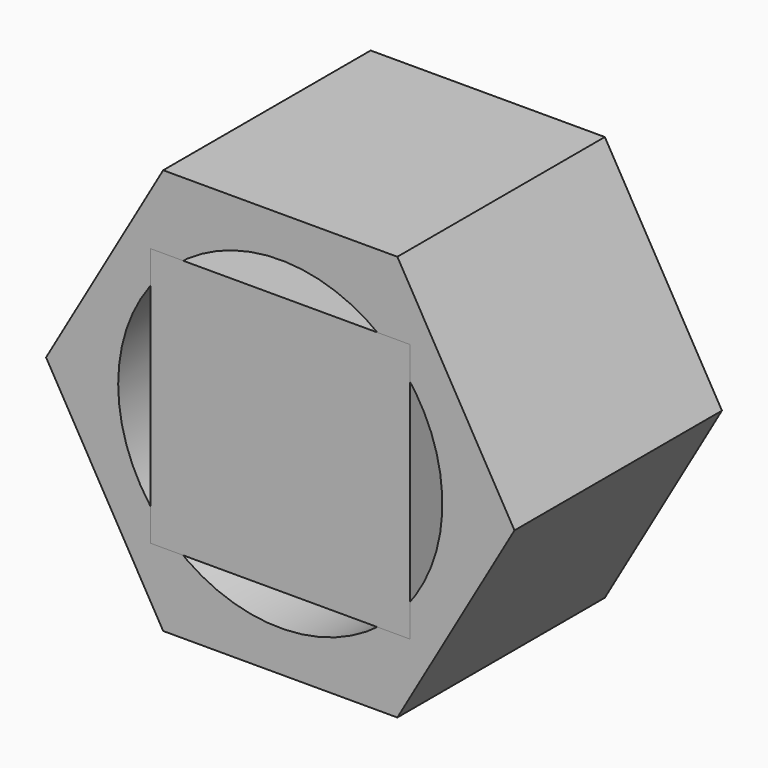
from build123d import *

# Parameters (mm, degrees)
F2_DEPTH = 25.4
F1_W     = 50.8
F1_H     = 50.8
F3_DEPTH = 25.4
F4_D     = 63.5
F4_DEPTH = 25.401
F5_D     = 63.5


with BuildPart() as f2:
    # F0 (on Front) → F2 (new body, symmetric)
    with BuildSketch(Plane.XZ):
        Polygon((22.9372407829, 39.7284664214), (-22.9372407829, 39.7284664214), (-45.8744815657, 0), (-22.9372407829, -39.7284664214), (22.9372407829, -39.7284664214), (45.8744815657, 0), align=None)
    extrude(amount=F2_DEPTH, both=True)

    # F4 (through all, one way)
    with BuildSketch(Plane.XZ):
        with Locations((0, 0)):
            Circle(F4_D / 2)
    extrude(amount=-F4_DEPTH, mode=Mode.SUBTRACT)

    # F5 (through all)
    with Locations(Plane(origin=(0, 0, 0), x_dir=(1, 0, 0), z_dir=(0, 1, 0))):
        with Locations((0, 0)):
            Hole(F5_D / 2)


with BuildPart() as f3:
    # F1 (on Front) → F3 (new body, symmetric)
    with BuildSketch(Plane.XZ):
        Rectangle(F1_W, F1_H)
    extrude(amount=F3_DEPTH, both=True)


solid = Compound([f2.part, f3.part])
